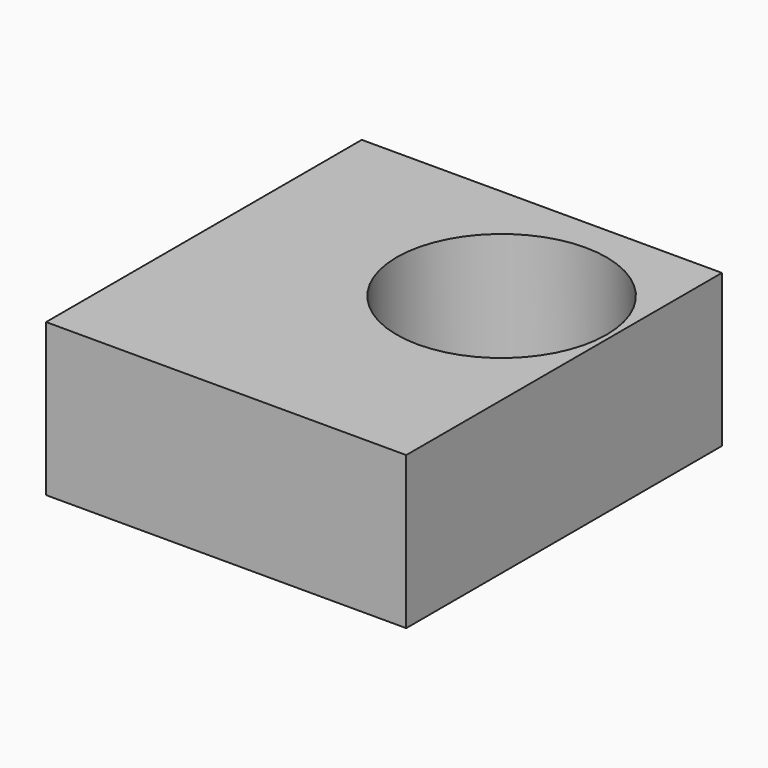
from build123d import *

# Parameters (mm, degrees)
F0_W     = 23.182752
F0_H     = 9.80809
F1_DEPTH = 25.4
F3_DEPTH = 25.4
F4_R     = 6.753053
F5_DEPTH = 25.4


with BuildPart() as f1:
    # F0 (on Front) → F1 (new body)
    with BuildSketch(Plane.XZ):
        with Locations((42.798924, 38.786521)):
            Rectangle(F0_W, F0_H)
    extrude(amount=F1_DEPTH)

    # F2 (on face) → F3 (cut)
    with BuildSketch(Plane.XY.offset(43.690566)):
        with BuildLine():
            ThreePointArc((31.207548, -16.712405), (36.557414, -22.06227), (41.907279, -16.712405))
            ThreePointArc((41.907279, -16.712405), (36.557414, -11.36254), (31.207548, -16.712405))
        make_face()
    extrude(amount=F3_DEPTH, mode=Mode.SUBTRACT)

    # F4 (on face) → F5 (cut)
    with BuildSketch(Plane.XY.offset(43.690566)):
        with Locations((47.316056, -8.88319)):
            Circle(F4_R)
    extrude(amount=-F5_DEPTH, mode=Mode.SUBTRACT)


solid = f1.part
